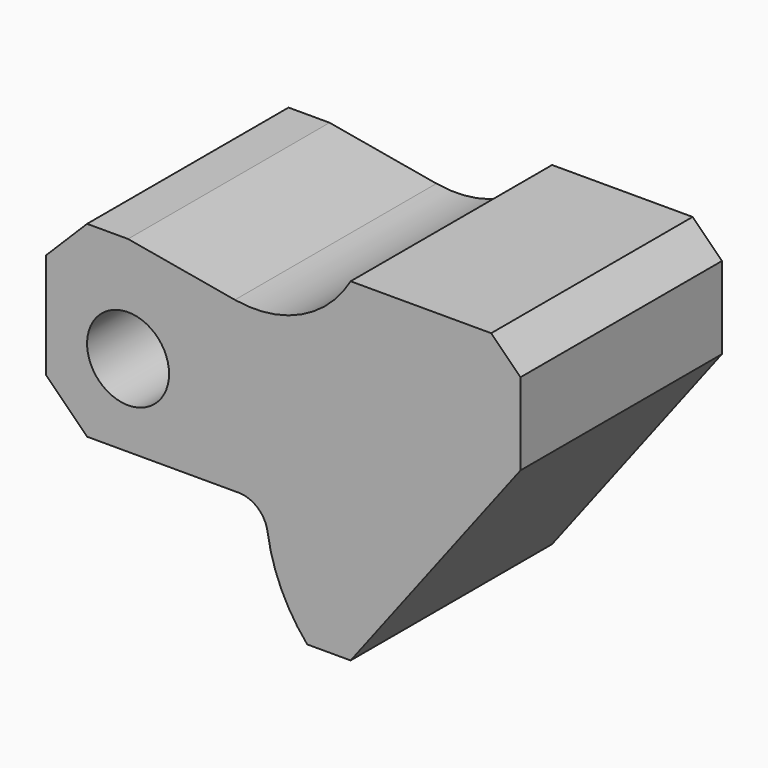
from build123d import *

# Parameters (mm, degrees)
F0_R     = 7
F1_DEPTH = 43


with BuildPart() as f1:
    # F0 (on Front) → F1 (new body)
    with BuildSketch(Plane.XZ):
        with BuildLine():
            Line((18.243085, 14.783252), (0, 18))
            Line((0, 18), (-7, 18))
            Line((-7, 18), (-14, 11))
            Line((-14, 11), (-14, -7))
            Line((-14, -7), (-7, -14))
            Line((-7, -14), (18.869657, -14))
            ThreePointArc((18.869657, -14), (22.134892, -15.213414), (23.815295, -18.264706))
            ThreePointArc((23.815295, -18.264706), (26.152126, -26.115672), (30.591098, -33))
            Line((30.591098, -33), (38, -33))
            Line((38, -33), (67, 5))
            Line((67, 5), (67, 19))
            Line((67, 19), (62, 24))
            Line((62, 24), (38, 24))
            ThreePointArc((38, 24), (29.574973, 16.276069), (18.243085, 14.783252))
        make_face()
        Circle(F0_R, mode=Mode.SUBTRACT)
    extrude(amount=F1_DEPTH)


solid = f1.part
